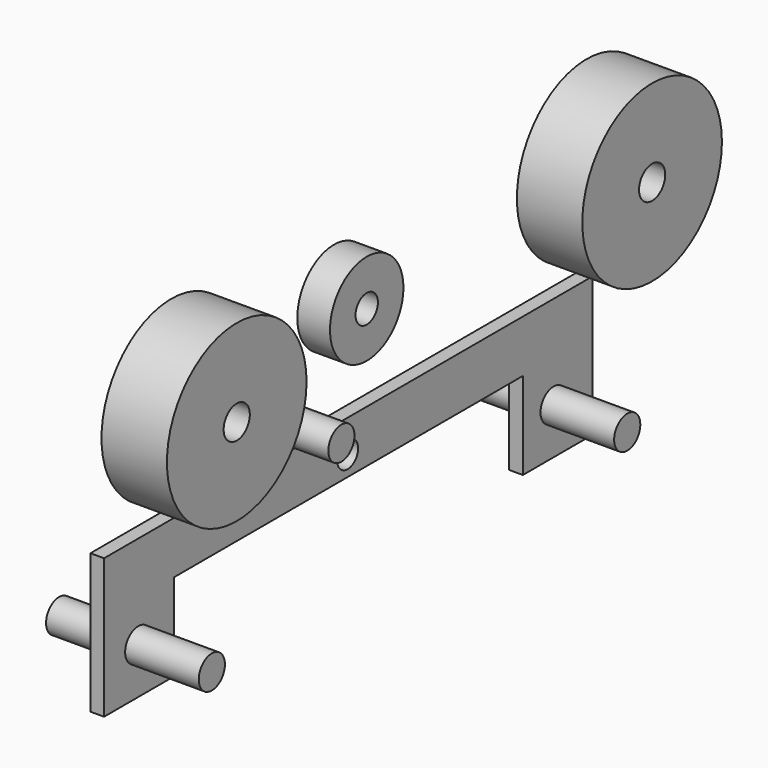
from build123d import *

# Parameters (mm, degrees)
F0_W          = 711.2
F0_H          = 60.8830283012
F1_DEPTH      = 15.875
F2_W          = 15.875
F2_H          = 101.6
F3_DEPTH      = 101.6
F4_R          = 15.24
F5_DEPTH      = 15.876
F6_R          = 19.05
F7_DEPTH      = 15.876
F8_R          = 19.05
F9_DEPTH      = 76.2
F9_DEPTH_BACK = 101.6
F10_R         = 101.6
F10_R_2       = 19.05
F11_DEPTH     = 76.2
F12_R         = 53.427441811
F12_R_2       = 16.2632160737
F13_DEPTH     = 38.1
F14_R         = 19.05
F15_DEPTH     = 76.2


with BuildPart() as f1:
    # F0 (on Right) → F1 (new body)
    with BuildSketch(Plane.YZ):
        with Locations((1.0775724914, 30.4415141506)):
            Rectangle(F0_W, F0_H)
    extrude(amount=F1_DEPTH)

    # F2 (on face) → F3 (join)
    with BuildSketch(Plane(origin=(0, 0, 0), x_dir=(1, 0, 0), z_dir=(0, 0, -1))):
        with Locations((7.9375, 303.7224275086)):
            Rectangle(F2_W, F2_H)
        with Locations((7.9375, -305.8775724914)):
            Rectangle(F2_W, F2_H)
    extrude(amount=F3_DEPTH)

    # F4 (on face) → F5 (cut, through all)
    with BuildSketch(Plane.YZ.offset(15.875)):
        with Locations((0, 23.2371634206)):
            Circle(F4_R)
    extrude(amount=-F5_DEPTH, mode=Mode.SUBTRACT)

    # F6 (on face) → F7 (cut, through all)
    with BuildSketch(Plane.YZ.offset(15.875)):
        with Locations((-304.5917153358, -47.9623302817)):
            Circle(F6_R)
        with Locations((299.7820846642, -47.9623302817)):
            Circle(F6_R)
    extrude(amount=-F7_DEPTH, mode=Mode.SUBTRACT)


with BuildPart() as f9:
    # F8 (on Right) → F9 (new body, two sides)
    with BuildSketch(Plane.YZ) as f9_sk:
        with Locations((299.7820846642, -47.9623302817)):
            Circle(F8_R)
    extrude(amount=-F9_DEPTH)
    extrude(f9_sk.sketch, amount=F9_DEPTH_BACK)


with BuildPart() as f9b:
    # F8 (on Right) → F9, piece 2 (new body, two sides)
    with BuildSketch(Plane.YZ) as f9_2_sk:
        with Locations((-304.8117753358, -47.9623302817)):
            Circle(F8_R)
    extrude(amount=-F9_DEPTH)
    extrude(f9_2_sk.sketch, amount=F9_DEPTH_BACK)


with BuildPart() as f11:
    # F10 (on Right) → F11 (new body)
    with BuildSketch(Plane.YZ):
        with Locations((-236.8192970753, 172.2988039255)):
            Circle(F10_R)
        with Locations((-236.8192970753, 172.2988039255)):
            Circle(F10_R_2, mode=Mode.SUBTRACT)
    extrude(amount=F11_DEPTH)


with BuildPart() as f11b:
    # F10 (on Right) → F11, piece 2 (new body)
    with BuildSketch(Plane.YZ):
        with Locations((367.7769029247, 172.2988039255)):
            Circle(F10_R)
        with Locations((367.7769029247, 172.2988039255)):
            Circle(F10_R_2, mode=Mode.SUBTRACT)
    extrude(amount=F11_DEPTH)


with BuildPart() as f13:
    # F12 (on Right) → F13 (new body)
    with BuildSketch(Plane.YZ):
        with Locations((0, 179.726600647)):
            Circle(F12_R)
        with Locations((0, 179.726600647)):
            Circle(F12_R_2, mode=Mode.SUBTRACT)
    extrude(amount=F13_DEPTH)


with BuildPart() as f15:
    # F14 (on Right) → F15 (new body)
    with BuildSketch(Plane.YZ):
        with Locations((-84.4934731722, 88.6937975883)):
            Circle(F14_R)
    extrude(amount=F15_DEPTH)


solid = Compound([f1.part, f9.part, f9b.part, f11.part, f11b.part, f13.part, f15.part])
